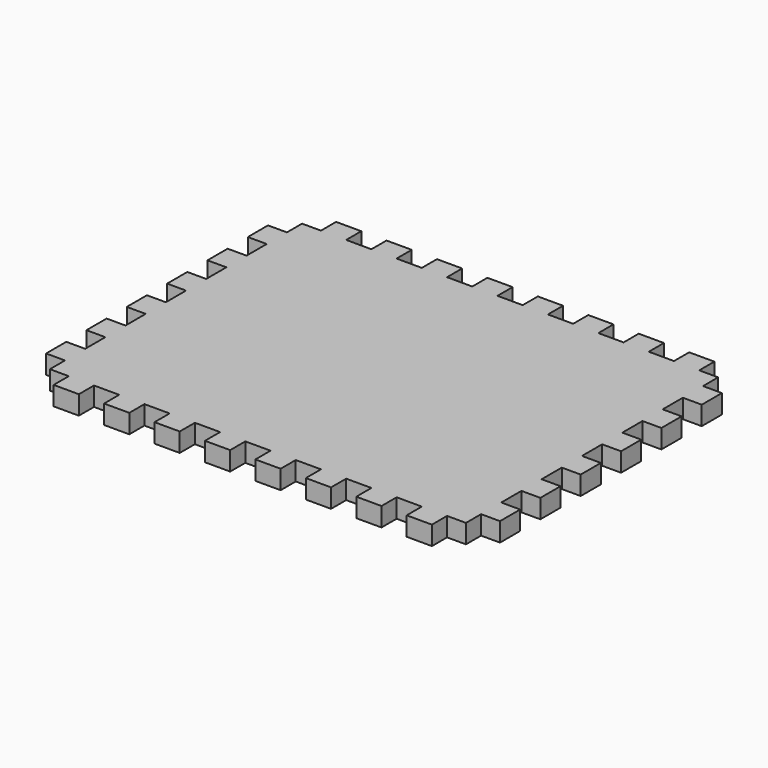
from build123d import *

# Parameters (mm, degrees)
F1_DEPTH = 9.525


with BuildPart() as f1:
    # F0 (on Top) → F1 (new body)
    with BuildSketch(Plane.XY):
        Polygon((31.75, 0), (19.05, 0), (19.05, -9.525), (9.525, -9.525), (9.525, -19.05), (0, -19.05), (0, -31.75), (9.525, -31.75), (9.525, -44.45), (0, -44.45), (0, -57.15), (9.525, -57.15), (9.525, -69.85), (0, -69.85), (0, -82.55), (9.525, -82.55), (9.525, -95.25), (0, -95.25), (0, -107.95), (9.525, -107.95), (9.525, -120.65), (0, -120.65), (0, -133.35), (9.525, -133.35), (9.525, -146.05), (0, -146.05), (0, -158.75), (9.525, -158.75), (9.525, -168.275), (19.05, -168.275), (19.05, -177.8), (31.75, -177.8), (31.75, -168.275), (44.45, -168.275), (44.45, -177.8), (57.15, -177.8), (57.15, -168.275), (69.85, -168.275), (69.85, -177.8), (82.55, -177.8), (82.55, -168.275), (95.25, -168.275), (95.25, -177.8), (107.95, -177.8), (107.95, -168.275), (120.65, -168.275), (120.65, -177.8), (133.35, -177.8), (133.35, -168.275), (146.05, -168.275), (146.05, -177.8), (158.75, -177.8), (158.75, -168.275), (171.45, -168.275), (171.45, -177.8), (184.15, -177.8), (184.15, -168.275), (196.85, -168.275), (196.85, -177.8), (209.55, -177.8), (209.55, -168.275), (219.075, -168.275), (219.075, -158.75), (228.6, -158.75), (228.6, -146.05), (219.075, -146.05), (219.075, -133.35), (228.6, -133.35), (228.6, -120.65), (219.075, -120.65), (219.075, -107.95), (228.6, -107.95), (228.6, -95.25), (219.075, -95.25), (219.075, -82.55), (228.6, -82.55), (228.6, -69.85), (219.075, -69.85), (219.075, -57.15), (228.6, -57.15), (228.6, -44.45), (219.075, -44.45), (219.075, -31.75), (228.6, -31.75), (228.6, -19.05), (219.075, -19.05), (219.075, -9.525), (209.55, -9.525), (209.55, 0), (196.85, 0), (196.85, -9.525), (184.15, -9.525), (184.15, 0), (171.45, 0), (171.45, -9.525), (158.75, -9.525), (158.75, 0), (146.05, 0), (146.05, -9.525), (133.35, -9.525), (133.35, 0), (120.65, 0), (120.65, -9.525), (107.95, -9.525), (107.95, 0), (95.25, 0), (95.25, -9.525), (82.55, -9.525), (82.55, 0), (69.85, 0), (69.85, -9.525), (57.15, -9.525), (57.15, 0), (44.45, 0), (44.45, -9.525), (31.75, -9.525), align=None)
    extrude(amount=F1_DEPTH)


solid = f1.part
